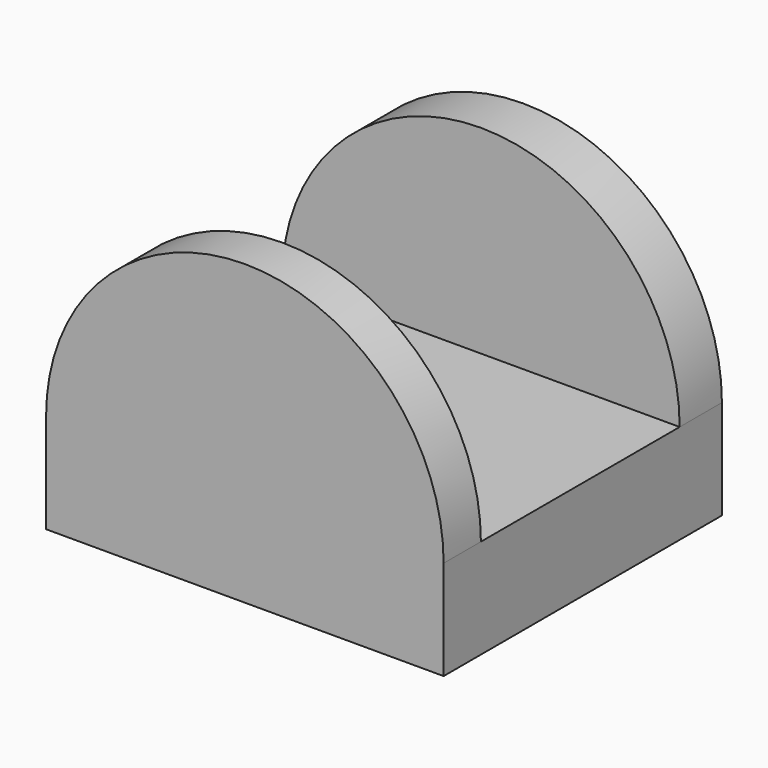
from build123d import *

# Parameters (mm, degrees)
F1_DEPTH = 44.45
F2_W     = 63.5
F2_H     = 50.8
F3_DEPTH = 50.8


with BuildPart() as f1:
    # F0 (on Front) → F1 (new body, symmetric)
    with BuildSketch(Plane.XZ):
        with BuildLine():
            Line((-50.8, 12.7), (-50.8, -12.7))
            Line((-50.8, -12.7), (50.8, -12.7))
            Line((50.8, -12.7), (50.8, 12.7))
            ThreePointArc((50.8, 12.7), (0, 63.5), (-50.8, 12.7))
        make_face()
    extrude(amount=F1_DEPTH, both=True)

    # F2 (on Right) → F3 (cut, symmetric)
    with BuildSketch(Plane.YZ):
        with Locations((-0.797947, 38.1)):
            Rectangle(F2_W, F2_H)
    extrude(amount=F3_DEPTH, both=True, mode=Mode.SUBTRACT)


solid = f1.part
